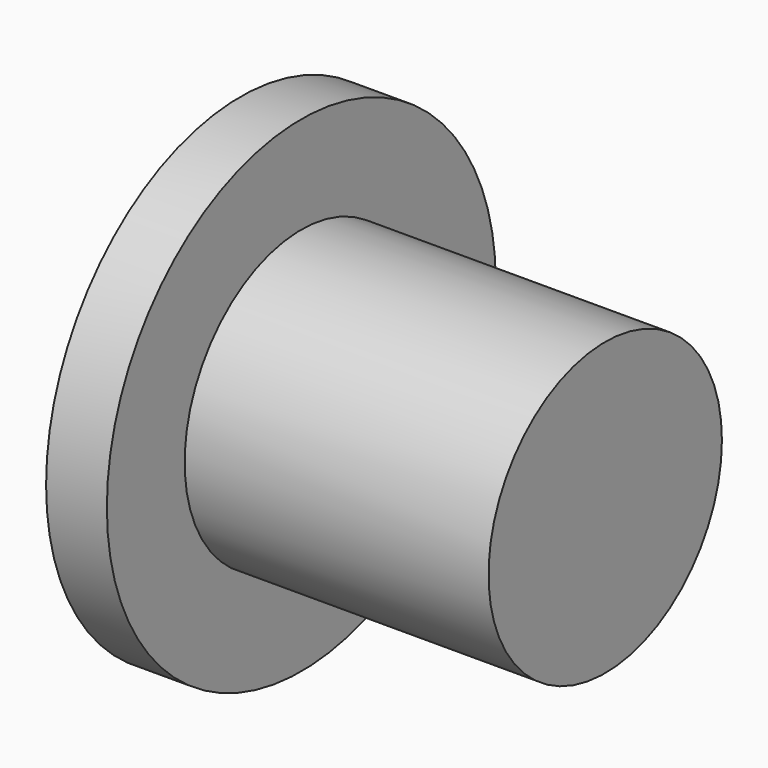
from build123d import *


with BuildPart() as f1:
    # F0 (on Top) → F1 (revolve)
    with BuildSketch(Plane.XY):
        with BuildLine():
            Line((2.5, 1.2), (0, 1.2))
            Line((0, 1.2), (0, 2))
            Line((0, 2), (-0.5, 2))
            ThreePointArc((-0.5, 2), (-0.745933, 1.013411), (-0.82864, 0))
            Line((-0.82864, 0), (2.5, 0))
            Line((2.5, 0), (2.5, 1.2))
        make_face()
    revolve(axis=Axis((0.97732, 0, 0), (1, 0, 0)))


solid = f1.part
